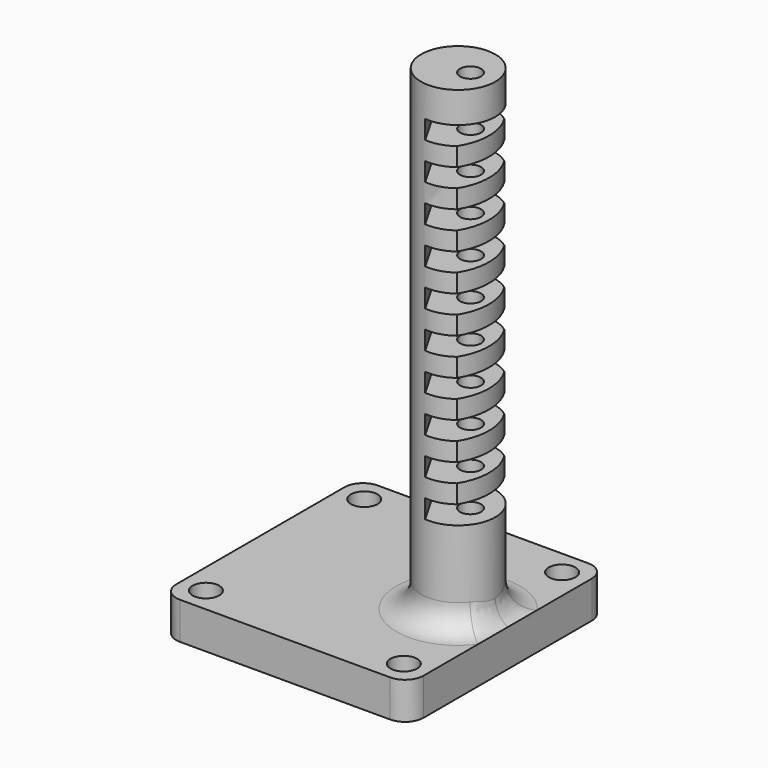
from build123d import *

# Parameters (mm, degrees)
SKETCH_R     = 2.15
PAD_DEPTH    = 6
SKETCH001_R  = 6
PAD001_DEPTH = 77
FILLET_R     = 4
GROOVE_ANGLE = 120
SKETCH003_R  = 1.7
POCKET_DEPTH = 83.0010001


with BuildPart() as part:
    # Sketch → Pad (new body)
    with BuildSketch(Plane.XY):
        with BuildLine():
            ThreePointArc((-17, 20), (-19.1213203436, 19.1213203436), (-20, 17))
            Line((-20, -17), (-20, 17))
            ThreePointArc((-20, -17), (-19.1213203436, -19.1213203436), (-17, -20))
            Line((17, -20), (-17, -20))
            ThreePointArc((17, -20), (19.1213203436, -19.1213203436), (20, -17))
            Line((20, 17), (20, -17))
            ThreePointArc((20, 17), (19.1213203436, 19.1213203436), (17, 20))
            Line((-17, 20), (17, 20))
        make_face()
        with Locations((-16, 16)):
            Circle(SKETCH_R, mode=Mode.SUBTRACT)
        with Locations((16, 16)):
            Circle(SKETCH_R, mode=Mode.SUBTRACT)
        with Locations((16, -16)):
            Circle(SKETCH_R, mode=Mode.SUBTRACT)
        with Locations((-16, -16)):
            Circle(SKETCH_R, mode=Mode.SUBTRACT)
    extrude(amount=PAD_DEPTH)

    # Sketch001 (on Face14 of Pad) → Pad001 (join)
    with BuildSketch(Plane.XY.offset(6)):
        with Locations((12, 0)):
            Circle(SKETCH001_R)
    extrude(amount=PAD001_DEPTH)

    # Fillet
    fillet_edges = [part.edges().sort_by_distance(p)[0] for p in [
        (6, 0, 6),
    ]]
    fillet(fillet_edges, radius=FILLET_R)

    # Sketch002 (on DatumPlane) → Groove (revolve, symmetric, cut)
    with BuildSketch(Plane(origin=(20, 0, 0), x_dir=(-1, 0, 0), z_dir=(0, 1, 0))) as groove_sk:
        Polygon((12, 48), (12, 45), (3, 45), (3, 42), (12, 42), (12, 39), (3, 39), (3, 36), (12, 36), (12, 33), (3, 33), (3, 30), (12, 30), (12, 27), (3, 27), (3, 24), (12, 24), (12, 21), (0, 21), (0, 33), (0, 78), (12, 78), (12, 75), (3, 75), (3, 72), (12, 72), (12, 69), (3, 69), (3, 66), (12, 66), (12, 63), (3, 63), (3, 60), (12, 60), (12, 57), (3, 57), (3, 54), (12, 54), (12, 51), (3, 51), (3, 48), align=None)
    revolve(axis=Axis((8, 0, 0), (0, 0, -1)), revolution_arc=GROOVE_ANGLE / 2, mode=Mode.SUBTRACT)
    revolve(groove_sk.sketch, axis=Axis((8, 0, 0), (0, 0, 1)), revolution_arc=GROOVE_ANGLE / 2, mode=Mode.SUBTRACT)

    # Sketch003 (on Face58 of Groove) → Pocket (cut, through all)
    with BuildSketch(Plane.XY.offset(83)):
        with Locations((14, 0)):
            Circle(SKETCH003_R)
    extrude(amount=-POCKET_DEPTH, mode=Mode.SUBTRACT)


solid = part.part
